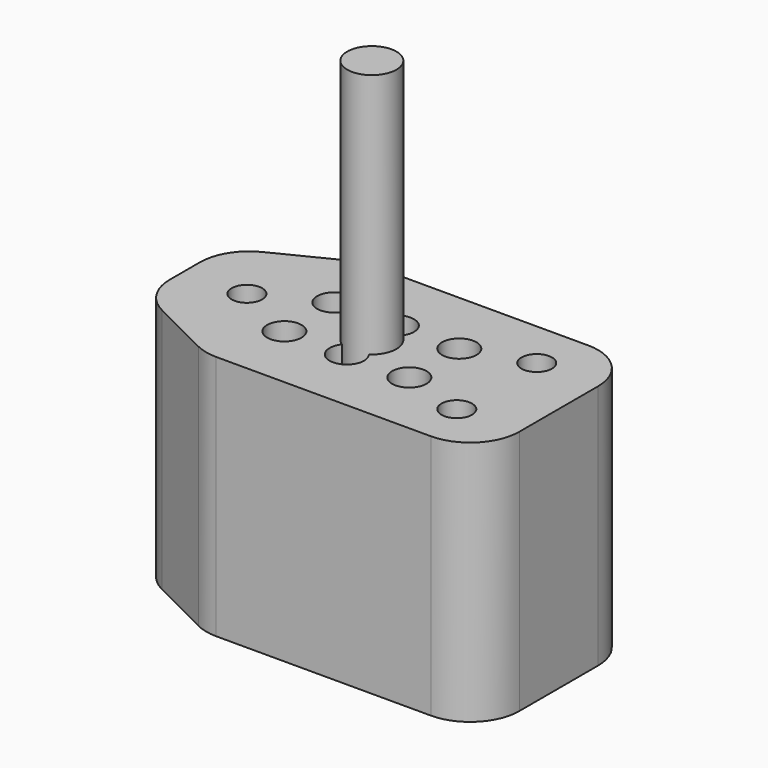
from build123d import *

# Parameters (mm, degrees)
CYLINDER_R        = 0.5
CYLINDER_DEPTH    = 10
CYLINDER001_R     = 0.35
CYLINDER001_DEPTH = 10
CYLINDER002_R     = 0.35
CYLINDER002_DEPTH = 10
CYLINDER003_R     = 0.35
CYLINDER003_DEPTH = 10
CYLINDER004_R     = 0.35
CYLINDER004_DEPTH = 10
CYLINDER005_R     = 0.35
CYLINDER005_DEPTH = 10
CYLINDER006_R     = 0.35
CYLINDER006_DEPTH = 10
CYLINDER008_R     = 0.31
CYLINDER008_DEPTH = 10
CYLINDER009_R     = 0.31
CYLINDER009_DEPTH = 10
CYLINDER007_R     = 0.31
CYLINDER007_DEPTH = 10
BOX_W             = 7.6
BOX_H             = 4
BOX_DEPTH         = 5
CHAMFER_SIZE2     = 2
CHAMFER_SIZE      = 1
FILLET_R          = 1


with BuildPart() as cylinder:
    # Cylinder → Cylinder (new body)
    with BuildSketch(Plane.XY):
        Circle(CYLINDER_R)
    extrude(amount=CYLINDER_DEPTH)


with BuildPart() as pin001:
    # Cylinder001 → Cylinder001 (new body)
    with BuildSketch(Plane(origin=(0, 0.635, 0), x_dir=(1, 0, 0), z_dir=(0, 0, 1))):
        Circle(CYLINDER001_R)
    extrude(amount=CYLINDER001_DEPTH)


with BuildPart() as pin002:
    # Cylinder002 → Cylinder002 (new body)
    with BuildSketch(Plane(origin=(0, -0.635, 0), x_dir=(1, 0, 0), z_dir=(0, 0, 1))):
        Circle(CYLINDER002_R)
    extrude(amount=CYLINDER002_DEPTH)


with BuildPart() as pin003:
    # Cylinder003 → Cylinder003 (new body)
    with BuildSketch(Plane(origin=(-1.27, 0.635, 0), x_dir=(1, 0, 0), z_dir=(0, 0, 1))):
        Circle(CYLINDER003_R)
    extrude(amount=CYLINDER003_DEPTH)


with BuildPart() as pin004:
    # Cylinder004 → Cylinder004 (new body)
    with BuildSketch(Plane(origin=(-1.27, -0.635, 0), x_dir=(1, 0, 0), z_dir=(0, 0, 1))):
        Circle(CYLINDER004_R)
    extrude(amount=CYLINDER004_DEPTH)


with BuildPart() as pin005:
    # Cylinder005 → Cylinder005 (new body)
    with BuildSketch(Plane(origin=(1.27, 0.635, 0), x_dir=(1, 0, 0), z_dir=(0, 0, 1))):
        Circle(CYLINDER005_R)
    extrude(amount=CYLINDER005_DEPTH)


with BuildPart() as pins:
    # Cylinder006 → Cylinder006 (new body)
    with BuildSketch(Plane(origin=(1.27, -0.635, 0), x_dir=(1, 0, 0), z_dir=(0, 0, 1))):
        Circle(CYLINDER006_R)
    extrude(amount=CYLINDER006_DEPTH)

    # Compound: union pin001, pin002, pin003, pin004, pin005
    add(pin001.part)
    add(pin002.part)
    add(pin003.part)
    add(pin004.part)
    add(pin005.part)


with BuildPart() as guide002:
    # Cylinder008 → Cylinder008 (new body)
    with BuildSketch(Plane(origin=(2.54, 1.016, 0), x_dir=(1, 0, 0), z_dir=(0, 0, 1))):
        Circle(CYLINDER008_R)
    extrude(amount=CYLINDER008_DEPTH)


with BuildPart() as guide003:
    # Cylinder009 → Cylinder009 (new body)
    with BuildSketch(Plane(origin=(2.54, -1.016, 0), x_dir=(1, 0, 0), z_dir=(0, 0, 1))):
        Circle(CYLINDER009_R)
    extrude(amount=CYLINDER009_DEPTH)


with BuildPart() as cutouts:
    # Cylinder007 → Cylinder007 (new body)
    with BuildSketch(Plane(origin=(-2.54, 0, 0), x_dir=(1, 0, 0), z_dir=(0, 0, 1))):
        Circle(CYLINDER007_R)
    extrude(amount=CYLINDER007_DEPTH)

    # Compound001: union guide002, guide003
    add(guide002.part)
    add(guide003.part)

    # Compound002: union Pins
    add(pins.part)


with BuildPart() as obj1:
    # Box → Box (new body)
    with BuildSketch(Plane(origin=(-3.8, -2, 0), x_dir=(1, 0, 0), z_dir=(0, 0, 1))):
        with Locations((3.8, 2)):
            Rectangle(BOX_W, BOX_H)
    extrude(amount=BOX_DEPTH)

    # Chamfer
    chamfer_edges = [obj1.edges().sort_by_distance(p)[0] for p in [
        (-3.8, -2, 2.5),
        (-3.8, 2, 2.5),
    ]]
    chamfer_side = obj1.faces().sort_by_distance((-3.8, 0, 2.5))[0]
    chamfer(chamfer_edges, length=CHAMFER_SIZE, length2=CHAMFER_SIZE2, reference=chamfer_side)

    # Fillet
    fillet_edges = [obj1.edges().sort_by_distance(p)[0] for p in [
        (-3.8, -1, 2.5),
        (-3.8, 1, 2.5),
        (-1.8, -2, 2.5),
        (-1.8, 2, 2.5),
        (3.8, -2, 2.5),
        (3.8, 2, 2.5),
    ]]
    fillet(fillet_edges, radius=FILLET_R)

    # Cut: cut Cutouts
    add(cutouts.part, mode=Mode.SUBTRACT)


solid = Compound([cylinder.part, obj1.part])
